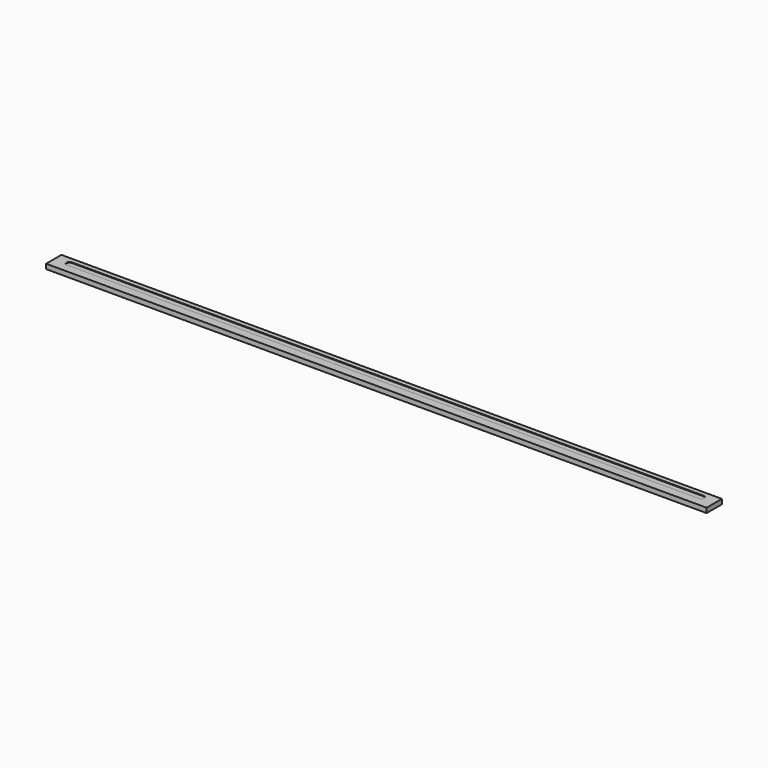
from build123d import *

# Parameters (mm, degrees)
F0_W     = 876.3
F0_H     = 25.4
F1_DEPTH = 3.175
F2_R     = 1.35255
F3_DEPTH = 19.05
F5_DEPTH = 0.79375


with BuildPart() as f1:
    # F0 (on Top) → F1 (new body, symmetric)
    with BuildSketch(Plane.XY):
        Rectangle(F0_W, F0_H)
    extrude(amount=F1_DEPTH, both=True)

    # F2 (on face) → F3 (cut)
    with BuildSketch(Plane(origin=(-438.15, 0, 0), x_dir=(0, -1, 0), z_dir=(-1, 0, 0))):
        with Locations((-7.9375, 0)):
            Circle(F2_R)
        with Locations((7.9375, 0)):
            Circle(F2_R)
    extrude(amount=-F3_DEPTH, mode=Mode.SUBTRACT)

    # F4 (on face) → F5 (cut)
    with BuildSketch(Plane.XY.offset(3.175)):
        with BuildLine():
            Line((-419.1, -1.5875), (419.1, -1.5875))
            ThreePointArc((419.1, -1.5875), (423.06875, 2.38125), (419.1, 6.35))
            Line((419.1, 6.35), (-419.1, 6.35))
            ThreePointArc((-419.1, 6.35), (-423.06875, 2.38125), (-419.1, -1.5875))
        make_face()
    extrude(amount=-F5_DEPTH, mode=Mode.SUBTRACT)


solid = f1.part
